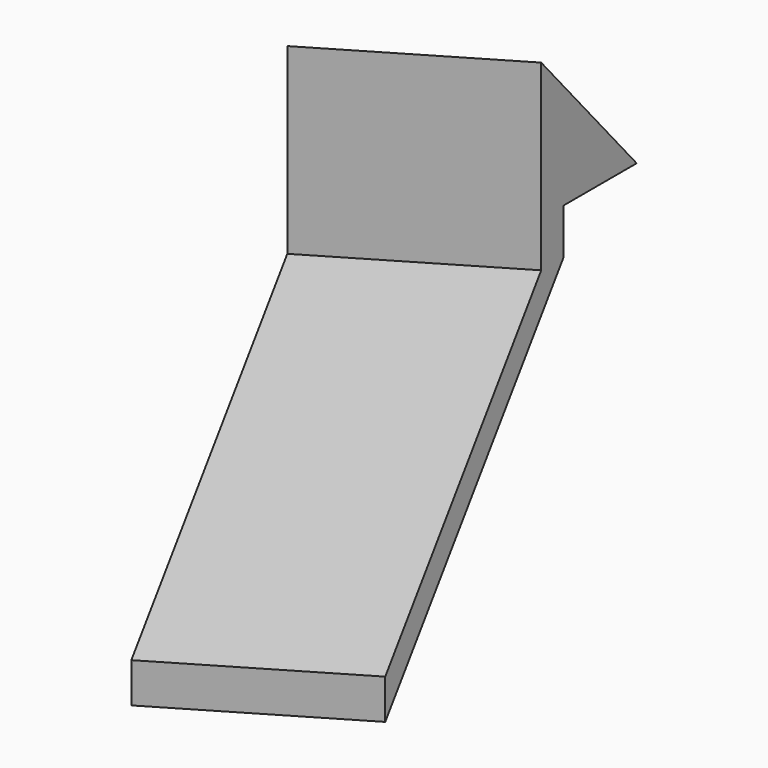
from build123d import *


with BuildPart() as f3:
    # F3: sweep along a path in F2
    with BuildLine(Plane(origin=(0, -1.220775, 0), x_dir=(-1, 0, 0), z_dir=(0, 1, 0))) as f3_path:
        Line((0, 8), (11.108147, 5.023581))
    # F0 (on Right) → F3 (sweep)
    with BuildSketch(Plane.YZ):
        Polygon((-9.750799, -13.925585), (0, 0), (0, 2), (4, 2), (-1.220775, 8), (-1.220775, 2), (-1.220775, 0), (-9.750799, -12.182138), align=None)
    sweep(path=f3_path.line)


solid = f3.part
